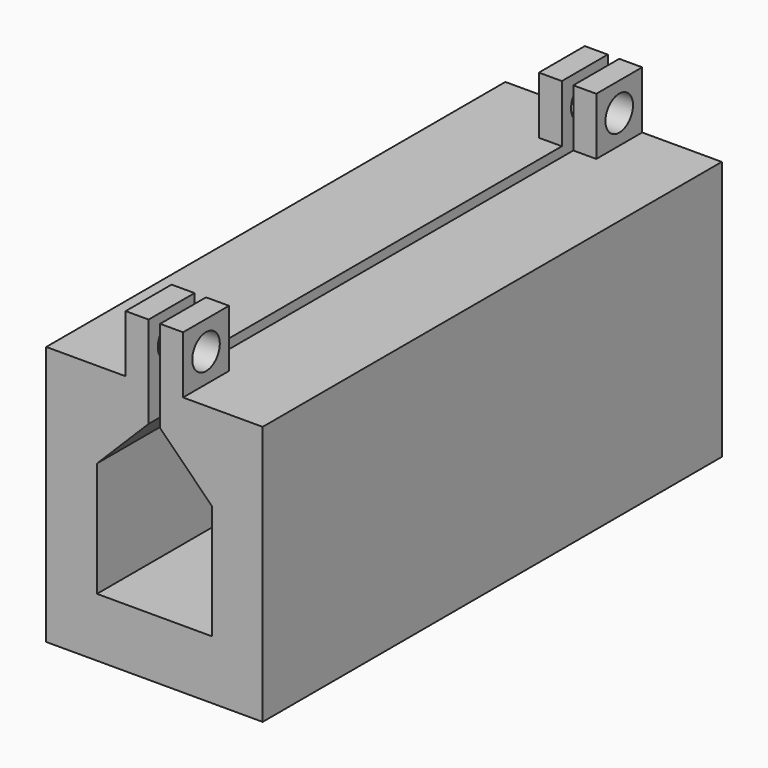
from build123d import *

# Parameters (mm, degrees)
F0_W     = 26
F0_H     = 50
F1_DEPTH = 25
F3_W     = 5
F3_H     = 50
F4_DEPTH = 5
F5_R     = 1.5
F6_DEPTH = 25
F2_W     = 1
F2_H     = 8.4868058562
F7_DEPTH = 77.6
F8_W     = 40
F8_H     = 5
F9_DEPTH = 25


with BuildPart() as f1:
    # F0 (on Top) → F1 (new body)
    with BuildSketch(Plane.XY):
        Rectangle(F0_W, F0_H)
    extrude(amount=F1_DEPTH)

    # F3 (on face) → F4 (join)
    with BuildSketch(Plane.XY.offset(25)):
        Rectangle(F3_W, F3_H)
    extrude(amount=F4_DEPTH)

    # F5 (on face) → F6 (cut)
    with BuildSketch(Plane.YZ.offset(2.5)):
        with Locations((-22.5, 27.5)):
            Circle(F5_R)
        with Locations((22.5, 27.5)):
            Circle(F5_R)
    extrude(amount=-F6_DEPTH, mode=Mode.SUBTRACT)

    # F2 (on face) → F7 (cut)
    with BuildSketch(Plane.XZ.offset(25)):
        Polygon((-5, 7.5), (5, 7.5), (5, 17.5), (0.5, 17.5), (-0.5, 17.5), (-5, 17.5), align=None)
        Polygon((0.5, 17.5), (5, 17.5), (0.5, 22), align=None)
        Polygon((-0.5, 22), (-5, 17.5), (-0.5, 17.5), align=None)
        with Locations((0, 29.2434029281)):
            Rectangle(F2_W, F2_H)
        Polygon((-0.5, 17.5), (0.5, 17.5), (0.5, 22), (0.5, 25), (-0.5, 25), (-0.5, 22), align=None)
        Polygon((13, 25), (9.4331367873, 25), (9.4331367873, 2.3707551882), (9.4331367873, 0), (13, 0), align=None)
        Polygon((-9.4218887389, 2.3707551882), (-9.4218887389, 25), (-13, 25), (-13, 0), (9.4331367873, 0), (9.4331367873, 2.3707551882), align=None)
    extrude(amount=-F7_DEPTH, mode=Mode.SUBTRACT)

    # F8 (on face) → F9 (cut)
    with BuildSketch(Plane.YZ.offset(2.5)):
        with Locations((0, 27.5)):
            Rectangle(F8_W, F8_H)
    extrude(amount=-F9_DEPTH, mode=Mode.SUBTRACT)


solid = f1.part
